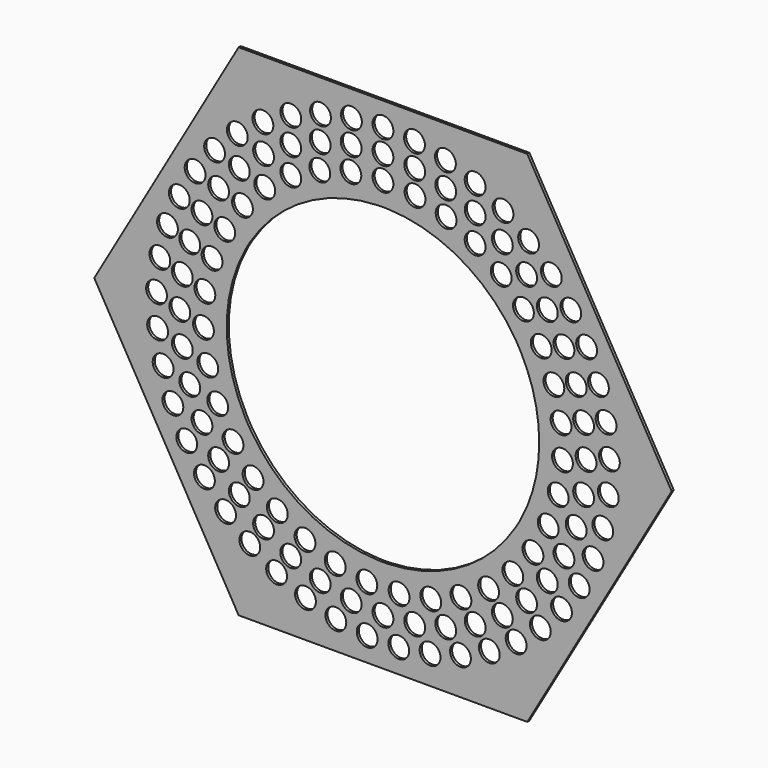
from build123d import *

# Parameters (mm, degrees)
F1_DEPTH = 6.35
F2_R     = 25.4
F3_DEPTH = 25.4


with BuildPart() as f1:
    # F0 (on Front) → F1 (new body)
    with BuildSketch(Plane.XZ):
        Polygon((351.952724, 609.6), (-351.952724, 609.6), (-703.905448, 0), (-351.952724, -609.6), (351.952724, -609.6), (703.905448, 0), align=None)
        Polygon((12.7, 584.2), (337.288027, 584.2), (499.582041, 303.098523), (512.282041, 281.101477), (674.576055, 0), (512.282041, -281.101477), (499.582041, -303.098523), (337.288027, -584.2), (12.7, -584.2), (-12.7, -584.2), (-337.288027, -584.2), (-499.582041, -303.098523), (-512.282041, -281.101477), (-674.576055, 0), (-512.282041, 281.101477), (-499.582041, 303.098523), (-466.288886, 360.763959), (-337.288027, 584.2), (-12.7, 584.2), align=None, mode=Mode.SUBTRACT)
        with BuildLine():
            Line((-12.7, 380.788275), (-12.7, 584.2))
            Line((-12.7, 584.2), (-337.288027, 584.2))
            Line((-337.288027, 584.2), (-466.288886, 360.763959))
            Line((-466.288886, 360.763959), (-499.582041, 303.098523))
            Line((-499.582041, 303.098523), (-323.422319, 201.39266))
            ThreePointArc((-323.422319, 201.39266), (-190.5, 329.955679), (-12.7, 380.788275))
        make_face()
        with BuildLine():
            Line((12.7, 380.788275), (12.7, 584.2))
            Line((12.7, 584.2), (-12.7, 584.2))
            Line((-12.7, 584.2), (-12.7, 380.788275))
            ThreePointArc((-12.7, 380.788275), (0, 381), (12.7, 380.788275))
        make_face()
        with BuildLine():
            Line((499.582041, 303.098523), (337.288027, 584.2))
            Line((337.288027, 584.2), (12.7, 584.2))
            Line((12.7, 584.2), (12.7, 380.788275))
            ThreePointArc((12.7, 380.788275), (190.5, 329.955679), (323.422319, 201.39266))
            Line((323.422319, 201.39266), (499.582041, 303.098523))
        make_face()
        with BuildLine():
            Line((512.282041, 281.101477), (499.582041, 303.098523))
            Line((499.582041, 303.098523), (323.422319, 201.39266))
            ThreePointArc((323.422319, 201.39266), (329.955679, 190.5), (336.122319, 179.395615))
            Line((336.122319, 179.395615), (512.282041, 281.101477))
        make_face()
        with BuildLine():
            Line((674.576055, 0), (512.282041, 281.101477))
            Line((512.282041, 281.101477), (336.122319, 179.395615))
            ThreePointArc((336.122319, 179.395615), (369.610338, 92.461874), (381, 0))
            ThreePointArc((381, 0), (369.610338, -92.461874), (336.122319, -179.395615))
            Line((336.122319, -179.395615), (512.282041, -281.101477))
            Line((512.282041, -281.101477), (674.576055, 0))
        make_face()
        with BuildLine():
            Line((499.582041, -303.098523), (512.282041, -281.101477))
            Line((512.282041, -281.101477), (336.122319, -179.395615))
            ThreePointArc((336.122319, -179.395615), (329.955679, -190.5), (323.422319, -201.39266))
            Line((323.422319, -201.39266), (499.582041, -303.098523))
        make_face()
        with BuildLine():
            Line((337.288027, -584.2), (499.582041, -303.098523))
            Line((499.582041, -303.098523), (323.422319, -201.39266))
            ThreePointArc((323.422319, -201.39266), (190.5, -329.955679), (12.7, -380.788275))
            Line((12.7, -380.788275), (12.7, -584.2))
            Line((12.7, -584.2), (337.288027, -584.2))
        make_face()
        with BuildLine():
            Line((-12.7, -584.2), (12.7, -584.2))
            Line((12.7, -584.2), (12.7, -380.788275))
            ThreePointArc((12.7, -380.788275), (0, -381), (-12.7, -380.788275))
            Line((-12.7, -380.788275), (-12.7, -584.2))
        make_face()
        with BuildLine():
            ThreePointArc((-12.7, -380.788275), (-190.5, -329.955679), (-323.422319, -201.39266))
            Line((-323.422319, -201.39266), (-499.582041, -303.098523))
            Line((-499.582041, -303.098523), (-337.288027, -584.2))
            Line((-337.288027, -584.2), (-12.7, -584.2))
            Line((-12.7, -584.2), (-12.7, -380.788275))
        make_face()
        with BuildLine():
            ThreePointArc((-323.422319, -201.39266), (-329.955679, -190.5), (-336.122319, -179.395615))
            Line((-336.122319, -179.395615), (-512.282041, -281.101477))
            Line((-512.282041, -281.101477), (-499.582041, -303.098523))
            Line((-499.582041, -303.098523), (-323.422319, -201.39266))
        make_face()
        with BuildLine():
            ThreePointArc((-336.122319, -179.395615), (-381, 0), (-336.122319, 179.395615))
            Line((-336.122319, 179.395615), (-512.282041, 281.101477))
            Line((-512.282041, 281.101477), (-674.576055, 0))
            Line((-674.576055, 0), (-512.282041, -281.101477))
            Line((-512.282041, -281.101477), (-336.122319, -179.395615))
        make_face()
        with BuildLine():
            ThreePointArc((-336.122319, 179.395615), (-329.955679, 190.5), (-323.422319, 201.39266))
            Line((-323.422319, 201.39266), (-499.582041, 303.098523))
            Line((-499.582041, 303.098523), (-512.282041, 281.101477))
            Line((-512.282041, 281.101477), (-336.122319, 179.395615))
        make_face()
    extrude(amount=F1_DEPTH)

    # F2 (on Front) → F3 (cut)
    with BuildSketch(Plane.XZ):
        with Locations((0, 438.15)):
            Circle(F2_R)
        with Locations((0, 495.3)):
            Circle(F2_R)
        with Locations((0, 552.45)):
            Circle(F2_R)
        with Locations((-78.234703, 431.108749)):
            Circle(F2_R)
        with Locations((-153.954879, 410.211309)):
            Circle(F2_R)
        with Locations((-224.726818, 376.129339)):
            Circle(F2_R)
        with Locations((-288.275853, 329.958263)):
            Circle(F2_R)
        with Locations((-342.559464, 273.182057)):
            Circle(F2_R)
        with Locations((-385.832932, 207.625554)):
            Circle(F2_R)
        with Locations((-416.705413, 135.395796)):
            Circle(F2_R)
        with Locations((-434.184638, 58.814305)):
            Circle(F2_R)
        with Locations((-437.708812, -19.657525)):
            Circle(F2_R)
        with Locations((-427.164665, -97.497547)):
            Circle(F2_R)
        with Locations((-402.891094, -172.203918)):
            Circle(F2_R)
        with Locations((-365.668271, -241.375512)):
            Circle(F2_R)
        with Locations((-316.69257, -302.7891)):
            Circle(F2_R)
        with Locations((-257.538108, -354.470796)):
            Circle(F2_R)
        with Locations((-190.10616, -394.759509)):
            Circle(F2_R)
        with Locations((-116.564044, -422.360327)):
            Circle(F2_R)
        with Locations((-39.275463, -436.386137)):
            Circle(F2_R)
        with Locations((39.275463, -436.386137)):
            Circle(F2_R)
        with Locations((116.564044, -422.360327)):
            Circle(F2_R)
        with Locations((190.10616, -394.759509)):
            Circle(F2_R)
        with Locations((257.538108, -354.470796)):
            Circle(F2_R)
        with Locations((316.69257, -302.7891)):
            Circle(F2_R)
        with Locations((365.668271, -241.375512)):
            Circle(F2_R)
        with Locations((402.891094, -172.203918)):
            Circle(F2_R)
        with Locations((427.164665, -97.497547)):
            Circle(F2_R)
        with Locations((437.708812, -19.657525)):
            Circle(F2_R)
        with Locations((434.184638, 58.814305)):
            Circle(F2_R)
        with Locations((416.705413, 135.395796)):
            Circle(F2_R)
        with Locations((385.832932, 207.625554)):
            Circle(F2_R)
        with Locations((342.559464, 273.182057)):
            Circle(F2_R)
        with Locations((288.275853, 329.958263)):
            Circle(F2_R)
        with Locations((224.726818, 376.129339)):
            Circle(F2_R)
        with Locations((153.954879, 410.211309)):
            Circle(F2_R)
        with Locations((78.234703, 431.108749)):
            Circle(F2_R)
        with Locations((-77.481991, 489.202035)):
            Circle(F2_R)
        with Locations((-153.056117, 471.058293)):
            Circle(F2_R)
        with Locations((-224.861495, 441.315531)):
            Circle(F2_R)
        with Locations((-291.130035, 400.706117)):
            Circle(F2_R)
        with Locations((-350.229989, 350.229989)):
            Circle(F2_R)
        with Locations((-400.706117, 291.130035)):
            Circle(F2_R)
        with Locations((-441.315531, 224.861495)):
            Circle(F2_R)
        with Locations((-471.058293, 153.056117)):
            Circle(F2_R)
        with Locations((-489.202035, 77.481991)):
            Circle(F2_R)
        with Locations((-495.3, 0)):
            Circle(F2_R)
        with Locations((-489.202035, -77.481991)):
            Circle(F2_R)
        with Locations((-471.058293, -153.056117)):
            Circle(F2_R)
        with Locations((-441.315531, -224.861495)):
            Circle(F2_R)
        with Locations((-400.706117, -291.130035)):
            Circle(F2_R)
        with Locations((-350.229989, -350.229989)):
            Circle(F2_R)
        with Locations((-291.130035, -400.706117)):
            Circle(F2_R)
        with Locations((-224.861495, -441.315531)):
            Circle(F2_R)
        with Locations((-153.056117, -471.058293)):
            Circle(F2_R)
        with Locations((-77.481991, -489.202035)):
            Circle(F2_R)
        with Locations((0, -495.3)):
            Circle(F2_R)
        with Locations((77.481991, -489.202035)):
            Circle(F2_R)
        with Locations((153.056117, -471.058293)):
            Circle(F2_R)
        with Locations((224.861495, -441.315531)):
            Circle(F2_R)
        with Locations((291.130035, -400.706117)):
            Circle(F2_R)
        with Locations((350.229989, -350.229989)):
            Circle(F2_R)
        with Locations((400.706117, -291.130035)):
            Circle(F2_R)
        with Locations((441.315531, -224.861495)):
            Circle(F2_R)
        with Locations((471.058293, -153.056117)):
            Circle(F2_R)
        with Locations((489.202035, -77.481991)):
            Circle(F2_R)
        with Locations((495.3, 0)):
            Circle(F2_R)
        with Locations((489.202035, 77.481991)):
            Circle(F2_R)
        with Locations((471.058293, 153.056117)):
            Circle(F2_R)
        with Locations((441.315531, 224.861495)):
            Circle(F2_R)
        with Locations((400.706117, 291.130035)):
            Circle(F2_R)
        with Locations((350.229989, 350.229989)):
            Circle(F2_R)
        with Locations((291.130035, 400.706117)):
            Circle(F2_R)
        with Locations((224.861495, 441.315531)):
            Circle(F2_R)
        with Locations((153.056117, 471.058293)):
            Circle(F2_R)
        with Locations((77.481991, 489.202035)):
            Circle(F2_R)
        with Locations((-76.88618, 547.073595)):
            Circle(F2_R)
        with Locations((-152.275857, 531.049024)):
            Circle(F2_R)
        with Locations((-224.701658, 504.688188)):
            Circle(F2_R)
        with Locations((-292.753898, 468.504171)):
            Circle(F2_R)
        with Locations((-355.108015, 423.201253)):
            Circle(F2_R)
        with Locations((-410.550359, 369.661203)):
            Circle(F2_R)
        with Locations((-458.001807, 308.92612)):
            Circle(F2_R)
        with Locations((-496.538771, 242.17814)):
            Circle(F2_R)
        with Locations((-525.411172, 170.716439)):
            Circle(F2_R)
        with Locations((-544.057043, 95.931936)):
            Circle(F2_R)
        with Locations((-552.113462, 19.280227)):
            Circle(F2_R)
        with Locations((-549.423621, -57.74675)):
            Circle(F2_R)
        with Locations((-536.039874, -133.649751)):
            Circle(F2_R)
        with Locations((-512.22272, -206.951413)):
            Circle(F2_R)
        with Locations((-478.435734, -276.225)):
            Circle(F2_R)
        with Locations((-435.336541, -340.122182)):
            Circle(F2_R)
        with Locations((-383.764017, -397.399273)):
            Circle(F2_R)
        with Locations((-324.721963, -446.941439)):
            Circle(F2_R)
        with Locations((-259.359565, -487.784398)):
            Circle(F2_R)
        with Locations((-188.949028, -519.133188)):
            Circle(F2_R)
        with Locations((-114.860814, -540.377642)):
            Circle(F2_R)
        with Locations((-38.536964, -551.10426)):
            Circle(F2_R)
        with Locations((38.536964, -551.10426)):
            Circle(F2_R)
        with Locations((114.860814, -540.377642)):
            Circle(F2_R)
        with Locations((188.949028, -519.133188)):
            Circle(F2_R)
        with Locations((259.359565, -487.784398)):
            Circle(F2_R)
        with Locations((324.721963, -446.941439)):
            Circle(F2_R)
        with Locations((383.764017, -397.399273)):
            Circle(F2_R)
        with Locations((435.336541, -340.122182)):
            Circle(F2_R)
        with Locations((478.435734, -276.225)):
            Circle(F2_R)
        with Locations((512.22272, -206.951413)):
            Circle(F2_R)
        with Locations((536.039874, -133.649751)):
            Circle(F2_R)
        with Locations((549.423621, -57.74675)):
            Circle(F2_R)
        with Locations((552.113462, 19.280227)):
            Circle(F2_R)
        with Locations((544.057043, 95.931936)):
            Circle(F2_R)
        with Locations((525.411172, 170.716439)):
            Circle(F2_R)
        with Locations((496.538771, 242.17814)):
            Circle(F2_R)
        with Locations((458.001807, 308.92612)):
            Circle(F2_R)
        with Locations((410.550359, 369.661203)):
            Circle(F2_R)
        with Locations((355.108015, 423.201253)):
            Circle(F2_R)
        with Locations((292.753898, 468.504171)):
            Circle(F2_R)
        with Locations((224.701658, 504.688188)):
            Circle(F2_R)
        with Locations((152.275857, 531.049024)):
            Circle(F2_R)
        with Locations((76.88618, 547.073595)):
            Circle(F2_R)
    extrude(amount=F3_DEPTH, mode=Mode.SUBTRACT)


solid = f1.part
